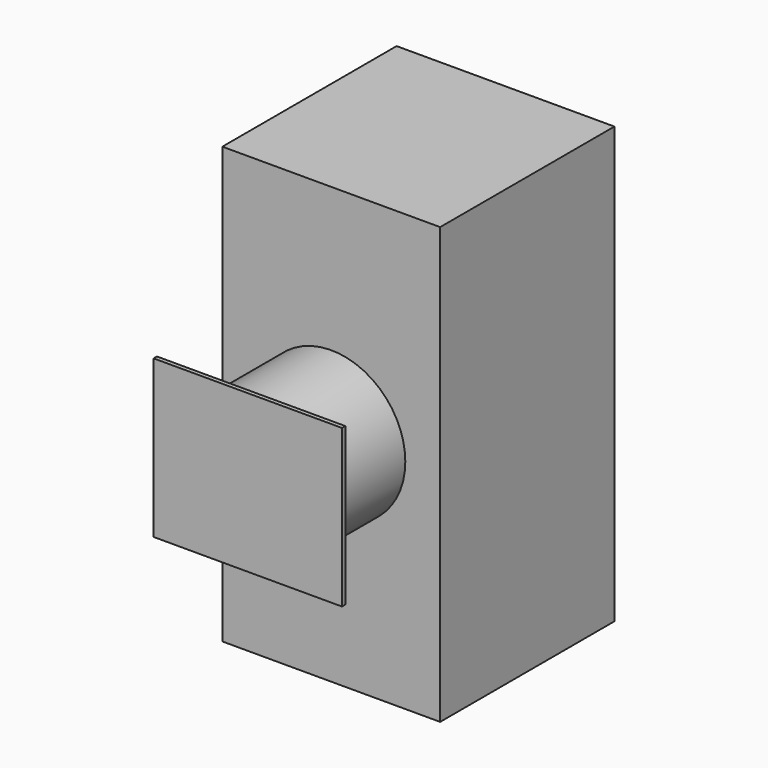
from build123d import *

# Parameters (mm, degrees)
F0_W      = 25.4
F0_H      = 50.8
F1_DEPTH  = 25.4
F2_R      = 8.635626
F3_DEPTH  = 24.638
F3_FACE_R = 8.635626
F4_DEPTH  = 36.322
F5_W      = 21.968006
F5_H      = 18.33639
F6_DEPTH  = 0.4826


with BuildPart() as f1:
    # F0 (on Front) → F1 (new body)
    with BuildSketch(Plane.XZ):
        Rectangle(F0_W, F0_H)
    extrude(amount=F1_DEPTH)

    # F2 (on face) → F3 (cut)
    with BuildSketch(Plane.XZ.offset(25.4)):
        Circle(F2_R)
    extrude(amount=-F3_DEPTH, mode=Mode.SUBTRACT)

    # F3_face (on face) → F4 (join)
    with BuildSketch(Plane.XZ.offset(0.762)):
        Circle(F3_FACE_R)
    extrude(amount=F4_DEPTH)

    # F5 (on face) → F6 (join)
    with BuildSketch(Plane.XZ.offset(37.084)):
        Rectangle(F5_W, F5_H)
    extrude(amount=F6_DEPTH)


solid = f1.part
